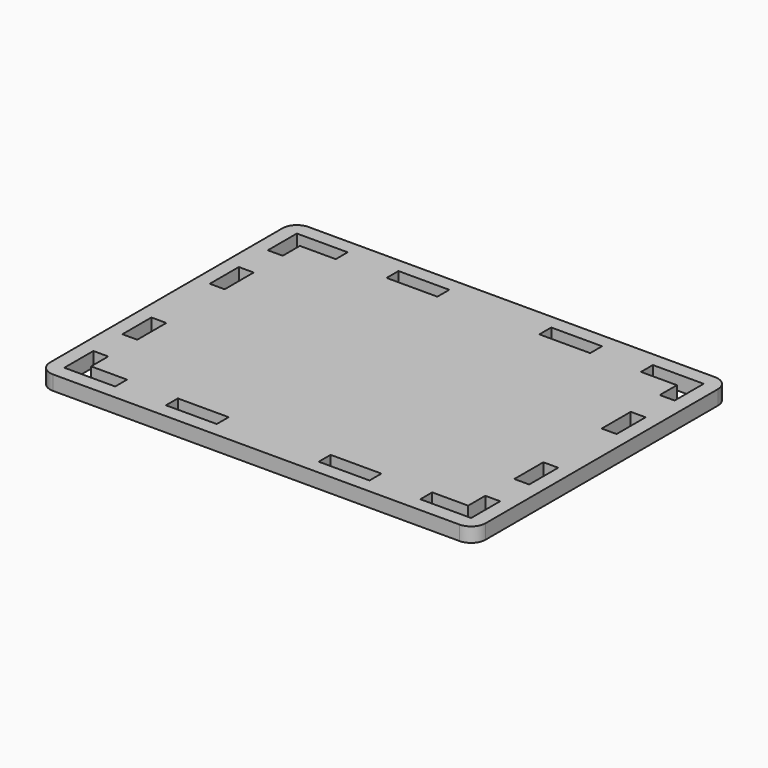
from build123d import *

# Parameters (mm, degrees)
F0_W     = 35
F0_H     = 10.25
F0_W_2   = 10.25
F0_H_2   = 25
F1_DEPTH = 10


with BuildPart() as f1:
    # F0 (on Top) → F1 (new body)
    with BuildSketch(Plane.XY):
        with BuildLine():
            Line((140, 110), (-140, 110))
            ThreePointArc((-140, 110), (-147.071068, 107.071068), (-150, 100))
            Line((-150, 100), (-150, -100))
            ThreePointArc((-150, -100), (-147.071068, -107.071068), (-140, -110))
            Line((-140, -110), (140, -110))
            ThreePointArc((140, -110), (147.071068, -107.071068), (150, -100))
            Line((150, -100), (150, 100))
            ThreePointArc((150, 100), (147.071068, 107.071068), (140, 110))
        make_face()
        Polygon((-105.125, -100.125), (-140.125, -100.125), (-140.125, -75.125), (-129.875, -75.125), (-129.875, -89.878049), (-105.125, -89.875), align=None, mode=Mode.SUBTRACT)
        with Locations((-52.625, -95)):
            Rectangle(F0_W, F0_H, mode=Mode.SUBTRACT)
        with Locations((-135, -37.625)):
            Rectangle(F0_W_2, F0_H_2, mode=Mode.SUBTRACT)
        with Locations((52.625, -95)):
            Rectangle(F0_W, F0_H, mode=Mode.SUBTRACT)
        Polygon((129.875, -75.125), (140.125, -75.125), (140.125, -100.125), (105.125, -100.125), (105.125, -89.875), (129.875, -89.878049), align=None, mode=Mode.SUBTRACT)
        with Locations((135, -37.625)):
            Rectangle(F0_W_2, F0_H_2, mode=Mode.SUBTRACT)
        with Locations((-135, 37.625)):
            Rectangle(F0_W_2, F0_H_2, mode=Mode.SUBTRACT)
        Polygon((-129.875, 75.125), (-140.125, 75.125), (-140.125, 100.125), (-105.125, 100.125), (-105.125, 89.875), (-129.875, 89.878049), align=None, mode=Mode.SUBTRACT)
        with Locations((-52.625, 95)):
            Rectangle(F0_W, F0_H, mode=Mode.SUBTRACT)
        with Locations((135, 37.625)):
            Rectangle(F0_W_2, F0_H_2, mode=Mode.SUBTRACT)
        with Locations((52.625, 95)):
            Rectangle(F0_W, F0_H, mode=Mode.SUBTRACT)
        Polygon((105.125, 89.875), (105.125, 100.125), (140.125, 100.125), (140.125, 75.125), (129.875, 75.125), (129.875, 89.878049), align=None, mode=Mode.SUBTRACT)
    extrude(amount=F1_DEPTH)


solid = f1.part
